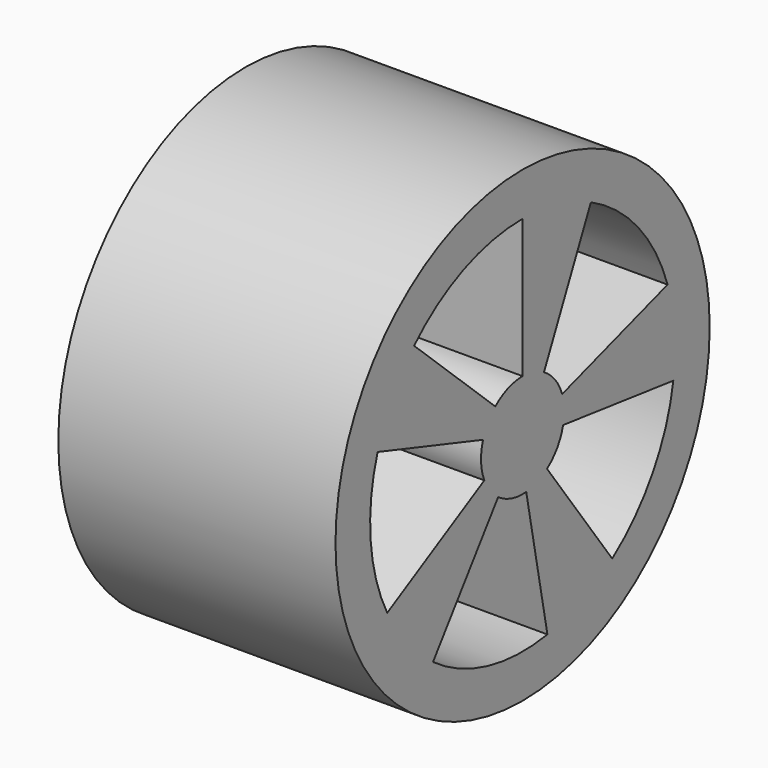
from build123d import *

# Parameters (mm, degrees)
F0_R     = 6.75
F1_DEPTH = 8
F3_DEPTH = 8.001


with BuildPart() as f1:
    # F0 (on Right) → F1 (new body)
    with BuildSketch(Plane.YZ):
        Circle(F0_R)
    extrude(amount=F1_DEPTH)

    # F2 (on face) → F3 (cut, through all)
    with BuildSketch(Plane.YZ.offset(8)):
        with BuildLine():
            Line((0, 1.5), (0, 5.5))
            ThreePointArc((0, 5.5), (-2.1214, 5.074412), (-3.914495, 3.863513))
            Line((-3.914495, 3.863513), (-0.984754, 1.131486))
            ThreePointArc((-0.984754, 1.131486), (-0.525724, 1.404854), (0, 1.5))
        make_face()
        with BuildLine():
            Line((1.426585, 0.463525), (5.230811, 1.699593))
            ThreePointArc((5.230811, 1.699593), (4.170504, 3.585651), (2.464774, 4.916797))
            Line((2.464774, 4.916797), (0.771801, 1.286205))
            ThreePointArc((0.771801, 1.286205), (1.173638, 0.934117), (1.426585, 0.463525))
        make_face()
        with BuildLine():
            ThreePointArc((3.232819, -4.449593), (4.698914, -2.858358), (5.437809, -0.824765))
            Line((5.437809, -0.824765), (1.461753, -0.336567))
            ThreePointArc((1.461753, -0.336567), (1.251072, -0.827538), (0.881678, -1.213525))
            Line((0.881678, -1.213525), (3.232819, -4.449593))
        make_face()
        with BuildLine():
            ThreePointArc((-3.232819, -4.449593), (-1.266416, -5.352214), (0.895977, -5.42653))
            Line((0.895977, -5.42653), (0.131612, -1.494215))
            ThreePointArc((0.131612, -1.494215), (-0.400433, -1.445563), (-0.881678, -1.213525))
            Line((-0.881678, -1.213525), (-3.232819, -4.449593))
        make_face()
        with BuildLine():
            Line((-1.426585, 0.463525), (-5.230811, 1.699593))
            ThreePointArc((-5.230811, 1.699593), (-5.481602, -0.449492), (-4.884064, -2.529015))
            Line((-4.884064, -2.529015), (-1.380412, -0.586909))
            ThreePointArc((-1.380412, -0.586909), (-1.498553, -0.06587), (-1.426585, 0.463525))
        make_face()
    extrude(amount=-F3_DEPTH, mode=Mode.SUBTRACT)


solid = f1.part
